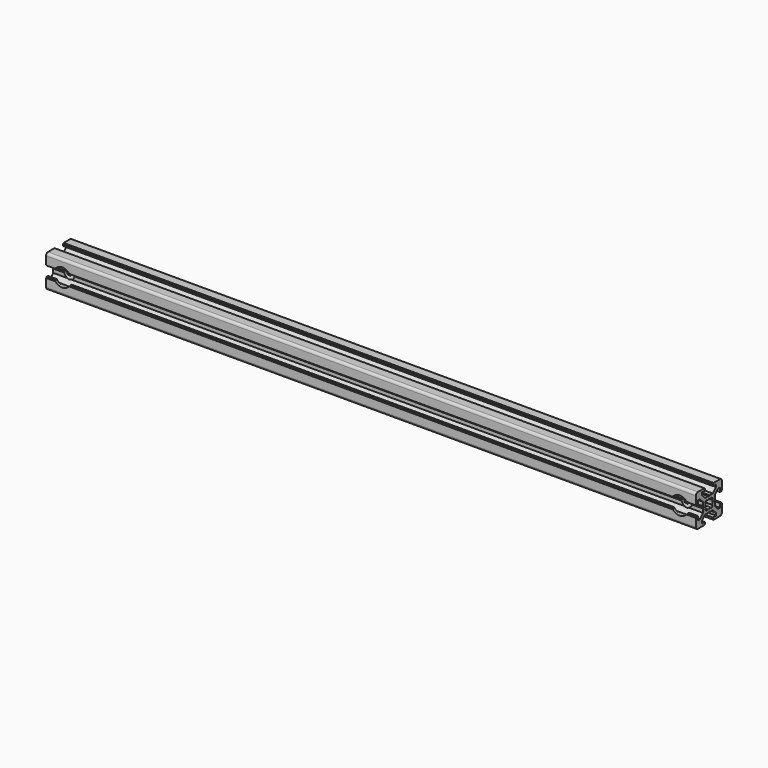
from build123d import *

# Parameters (mm, degrees)
PAD_DEPTH       = 400
SKETCH001_R     = 3.25
POCKET_DEPTH    = 21
SKETCH002_R     = 5.5
POCKET001_DEPTH = 2


with BuildPart() as part:
    # Sketch → Pad (new body)
    with BuildSketch(Plane.YZ):
        with BuildLine():
            Line((0, 4.1), (0.65, 4.5))
            Line((0.65, 4.5), (3, 4.5))
            Line((3, 4.5), (5.5, 7))
            Line((5.5, 7), (5.5, 8.5))
            Line((5.5, 8.5), (3, 8.5))
            Line((3, 8.5), (3, 9.5))
            Line((3, 9.5), (3.5, 9.5))
            Line((3.5, 9.5), (3.5, 10))
            Line((3.5, 10), (8.5, 10))
            ThreePointArc((10, 8.5), (9.56066, 9.56066), (8.5, 10))
            Line((10, 8.5), (10, 3.5))
            Line((10, 3.5), (9.5, 3.5))
            Line((9.5, 3.5), (9.5, 3))
            Line((9.5, 3), (8.5, 3))
            Line((8.5, 3), (8.5, 5.5))
            Line((8.5, 5.5), (7, 5.5))
            Line((7, 5.5), (4.5, 3))
            Line((4.5, 3), (4.5, 0.65))
            Line((4.5, 0.65), (4.1, 0))
            Line((4.5, -0.65), (4.1, 0))
            Line((4.5, -3), (4.5, -0.65))
            Line((7, -5.5), (4.5, -3))
            Line((8.5, -5.5), (7, -5.5))
            Line((8.5, -3), (8.5, -5.5))
            Line((9.5, -3), (8.5, -3))
            Line((9.5, -3.5), (9.5, -3))
            Line((10, -3.5), (9.5, -3.5))
            Line((10, -8.5), (10, -3.5))
            ThreePointArc((8.5, -10), (9.56066, -9.56066), (10, -8.5))
            Line((3.5, -10), (8.5, -10))
            Line((3.5, -9.5), (3.5, -10))
            Line((3, -9.5), (3.5, -9.5))
            Line((3, -8.5), (3, -9.5))
            Line((5.5, -8.5), (3, -8.5))
            Line((5.5, -7), (5.5, -8.5))
            Line((3, -4.5), (5.5, -7))
            Line((0.65, -4.5), (3, -4.5))
            Line((0, -4.1), (0.65, -4.5))
            Line((0, -4.1), (-0.65, -4.5))
            Line((-0.65, -4.5), (-3, -4.5))
            Line((-3, -4.5), (-5.5, -7))
            Line((-5.5, -7), (-5.5, -8.5))
            Line((-5.5, -8.5), (-3, -8.5))
            Line((-3, -8.5), (-3, -9.5))
            Line((-3, -9.5), (-3.5, -9.5))
            Line((-3.5, -9.5), (-3.5, -10))
            Line((-3.5, -10), (-8.5, -10))
            ThreePointArc((-10, -8.5), (-9.56066, -9.56066), (-8.5, -10))
            Line((-10, -8.5), (-10, -3.5))
            Line((-10, -3.5), (-9.5, -3.5))
            Line((-9.5, -3.5), (-9.5, -3))
            Line((-9.5, -3), (-8.5, -3))
            Line((-8.5, -3), (-8.5, -5.5))
            Line((-8.5, -5.5), (-7, -5.5))
            Line((-7, -5.5), (-4.5, -3))
            Line((-4.5, -3), (-4.5, -0.65))
            Line((-4.5, -0.65), (-4.1, 0))
            Line((-4.5, 0.65), (-4.1, 0))
            Line((-4.5, 3), (-4.5, 0.65))
            Line((-7, 5.5), (-4.5, 3))
            Line((-8.5, 5.5), (-7, 5.5))
            Line((-8.5, 3), (-8.5, 5.5))
            Line((-9.5, 3), (-8.5, 3))
            Line((-9.5, 3.5), (-9.5, 3))
            Line((-10, 3.5), (-9.5, 3.5))
            Line((-10, 8.5), (-10, 3.5))
            ThreePointArc((-8.5, 10), (-9.56066, 9.56066), (-10, 8.5))
            Line((-3.5, 10), (-8.5, 10))
            Line((-3.5, 9.5), (-3.5, 10))
            Line((-3, 9.5), (-3.5, 9.5))
            Line((-3, 8.5), (-3, 9.5))
            Line((-5.5, 8.5), (-3, 8.5))
            Line((-5.5, 7), (-5.5, 8.5))
            Line((-3, 4.5), (-5.5, 7))
            Line((-0.65, 4.5), (-3, 4.5))
            Line((0, 4.1), (-0.65, 4.5))
        make_face()
        with BuildLine():
            Line((1.340499, 2.401159), (1.923239, 2.983899))
            Line((1.923239, 2.983899), (2.983899, 1.923239))
            Line((2.983899, 1.923239), (2.401159, 1.340499))
            ThreePointArc((2.75, 0), (2.661361, 0.692573), (2.401159, 1.340499))
            ThreePointArc((2.401164, -1.34049), (2.661362, -0.692568), (2.75, 0))
            Line((2.983904, -1.92323), (2.401164, -1.34049))
            Line((1.923247, -2.983894), (2.983904, -1.92323))
            Line((1.340507, -2.401154), (1.923247, -2.983894))
            ThreePointArc((0, -2.75), (0.692577, -2.66136), (1.340507, -2.401154))
            ThreePointArc((-1.340507, -2.401154), (-0.692577, -2.66136), (0, -2.75))
            Line((-1.340507, -2.401154), (-1.923247, -2.983894))
            Line((-1.923247, -2.983894), (-2.983904, -1.92323))
            Line((-2.983904, -1.92323), (-2.401164, -1.34049))
            ThreePointArc((-2.75, 0), (-2.661362, -0.692568), (-2.401164, -1.34049))
            ThreePointArc((-2.401159, 1.340499), (-2.661361, 0.692572), (-2.75, 0))
            Line((-2.983899, 1.923239), (-2.401159, 1.340499))
            Line((-1.923239, 2.983899), (-2.983899, 1.923239))
            Line((-1.340499, 2.401159), (-1.923239, 2.983899))
            ThreePointArc((0, 2.75), (-0.692573, 2.661361), (-1.340499, 2.401159))
            ThreePointArc((1.340499, 2.401159), (0.692573, 2.661361), (0, 2.75))
        make_face(mode=Mode.SUBTRACT)
    extrude(amount=PAD_DEPTH)

    # Sketch001 → Pocket (cut)
    with BuildSketch(Plane.XZ.offset(10)):
        with Locations((10, 0)):
            Circle(SKETCH001_R)
        with Locations((390, 0)):
            Circle(SKETCH001_R)
    extrude(amount=-POCKET_DEPTH, mode=Mode.SUBTRACT)

    # Sketch002 → Pocket001 (cut)
    with BuildSketch(Plane.XZ.offset(10)):
        with Locations((10, 0)):
            Circle(SKETCH002_R)
        with Locations((390, 0)):
            Circle(SKETCH002_R)
    extrude(amount=-POCKET001_DEPTH, mode=Mode.SUBTRACT)


solid = part.part
